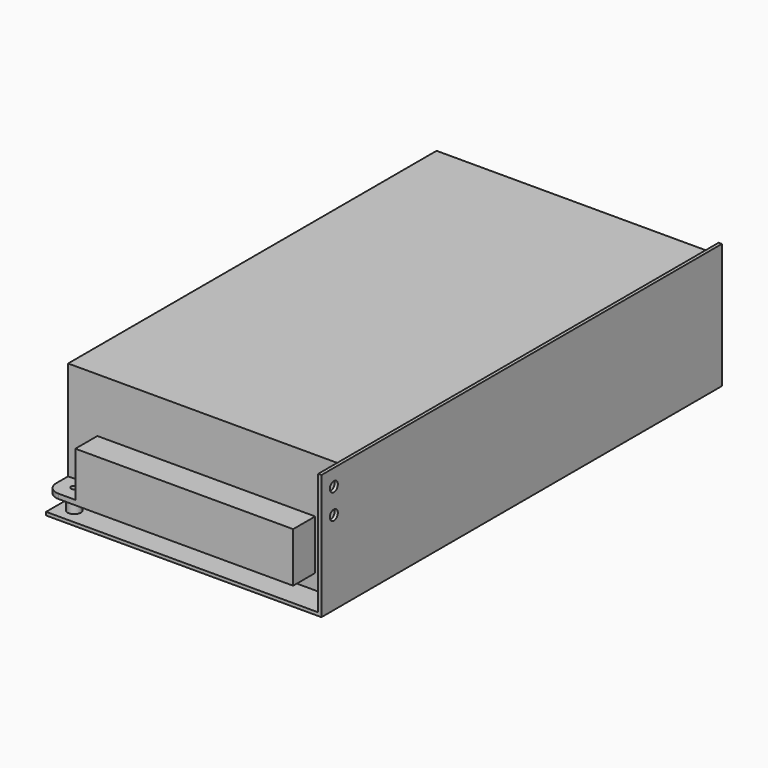
from build123d import *

# Parameters (mm, degrees)
F1_DEPTH  = 200
F2_W      = 108.7
F2_H      = 184
F3_DEPTH  = 47.7
F5_R      = 2.6
F5_R_2    = 1.25
F6_DEPTH  = 6.1
F7_R      = 2.6
F7_R_2    = 1.25
F8_DEPTH  = 1.9
F9_W      = 87
F9_H      = 11
F10_DEPTH = 18
F4_R      = 2
F11_DEPTH = 110.001
F12_DEPTH = 1.301


with BuildPart() as f1:
    # F0 (on Front) → F1 (new body)
    with BuildSketch(Plane.XZ):
        Polygon((0, 1.3), (0, 0), (110, 0), (110, 50), (108.7, 50), (108.7, 1.3), align=None)
    extrude(amount=F1_DEPTH)

    # F2 (on face) → F3 (join, through all)
    with BuildSketch(Plane.XY.offset(1.3)):
        with Locations((54.35, -97)):
            Rectangle(F2_W, F2_H)
    extrude(amount=F3_DEPTH)

    # F5 (on face) → F6 (join)
    with BuildSketch(Plane.XY.offset(1.3)):
        with Locations((6.25, -193.75)):
            Circle(F5_R)
        with Locations((6.25, -193.75)):
            Circle(F5_R_2, mode=Mode.SUBTRACT)
    extrude(amount=F6_DEPTH)

    # F7 (on face) → F8 (join)
    with BuildSketch(Plane.XY.offset(7.4)):
        with BuildLine():
            Line((98.7, -200), (98.7, -189))
            Line((98.7, -189), (0, -189))
            Line((0, -189), (0, -195))
            ThreePointArc((0, -195), (1.4644660941, -198.5355339059), (5, -200))
            Line((5, -200), (98.7, -200))
        make_face()
        with Locations((6.25, -193.75)):
            Circle(F7_R, mode=Mode.SUBTRACT)
        with Locations((6.25, -193.75)):
            Circle(F7_R)
        with Locations((6.25, -193.75)):
            Circle(F7_R_2, mode=Mode.SUBTRACT)
    extrude(amount=F8_DEPTH)

    # F9 (on face) → F10 (join)
    with BuildSketch(Plane.XY.offset(9.3)):
        with Locations((55.2, -194.5)):
            Rectangle(F9_W, F9_H)
    extrude(amount=F10_DEPTH)

    # F4 (on face) → F11 (cut, through all)
    with BuildSketch(Plane.YZ.offset(110)):
        with Locations((-193.8, 43.4)):
            Circle(F4_R)
        with Locations((-193.8, 33.4)):
            Circle(F4_R)
    extrude(amount=-F11_DEPTH, mode=Mode.SUBTRACT)

    # F12 (cut, through all): a face of the model
    f12_faces = [f1.faces().sort_by_distance(p)[0] for p in [
        (6.25, -193.75, 1.3),
    ]]
    extrude(f12_faces, amount=-F12_DEPTH, mode=Mode.SUBTRACT)


solid = f1.part
